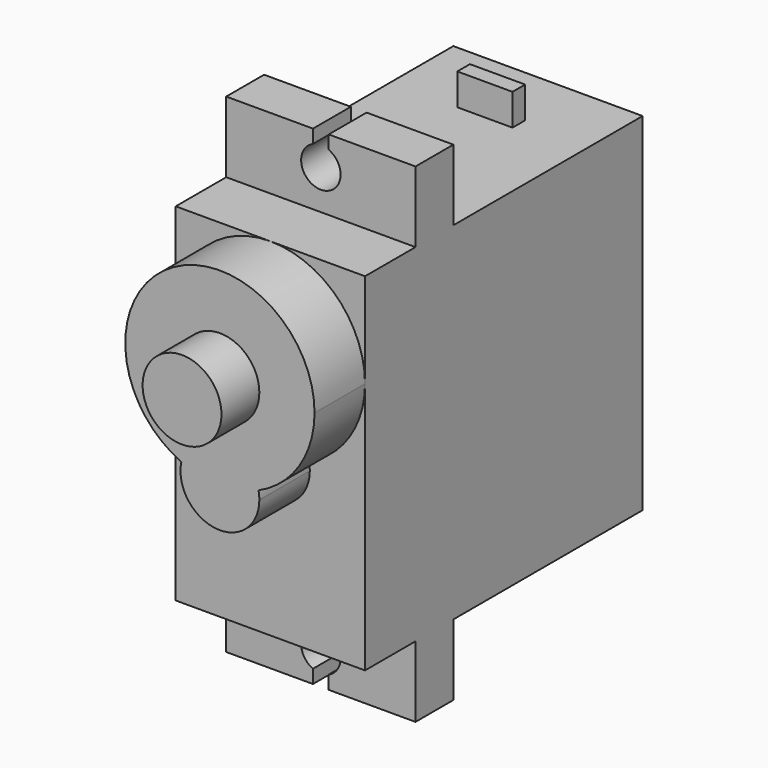
from build123d import *

# Parameters (mm, degrees)
F0_W      = 12
F0_H      = 22
F1_DEPTH  = 22
F3_DEPTH  = 4
F4_R      = 2.5
F5_DEPTH  = 3
F6_W      = 12
F6_H      = 3
F7_DEPTH  = 4.5
F8_W      = 12
F8_H      = 3
F9_DEPTH  = 4.5
F11_DEPTH = 3
F13_DEPTH = 3
F14_W     = 3.5
F14_H     = 1
F15_DEPTH = 2


with BuildPart() as f1:
    # F0 (on Front) → F1 (new body)
    with BuildSketch(Plane.XZ):
        Rectangle(F0_W, F0_H)
        Rectangle(F0_W, F0_H)
    extrude(amount=-F1_DEPTH)

    # F2 (on face) → F3 (join)
    with BuildSketch(Plane.XZ):
        with BuildLine():
            ThreePointArc((2.4451447071, -0.4791666667), (5.0334316447, 1.7343353083), (6, 5))
            ThreePointArc((6, 5), (-3.2656646917, 10.0334316447), (-2.4451447071, -0.4791666667))
            ThreePointArc((-2.4451447071, -0.4791666667), (0, 1.5), (2.4451447071, -0.4791666667))
        make_face()
        with BuildLine():
            ThreePointArc((2.4451447071, -0.4791666667), (0, 1.5), (-2.4451447071, -0.4791666667))
            ThreePointArc((-2.4451447071, -0.4791666667), (0, -1), (2.4451447071, -0.4791666667))
        make_face()
        with BuildLine():
            ThreePointArc((2.4451447071, -0.4791666667), (0, -1), (-2.4451447071, -0.4791666667))
            ThreePointArc((-2.4451447071, -0.4791666667), (-0.2618570527, -3.4862483552), (2.5, -1))
            ThreePointArc((2.5, -1), (2.4862483552, -0.7381429473), (2.4451447071, -0.4791666667))
        make_face()
    extrude(amount=F3_DEPTH)

    # F4 (on face) → F5 (join)
    with BuildSketch(Plane.XZ.offset(4)):
        with Locations((0, 5)):
            Circle(F4_R)
    extrude(amount=F5_DEPTH)

    # F6 (on face) → F7 (join)
    with BuildSketch(Plane.XY.offset(11)):
        with Locations((0, 5.5)):
            Rectangle(F6_W, F6_H)
    extrude(amount=F7_DEPTH)

    # F8 (on face) → F9 (join)
    with BuildSketch(Plane(origin=(0, 0, -11), x_dir=(1, 0, 0), z_dir=(0, 0, -1))):
        with Locations((0, -5.5)):
            Rectangle(F8_W, F8_H)
    extrude(amount=F9_DEPTH)

    # F10 (on face) → F11 (cut, through all)
    with BuildSketch(Plane.XZ.offset(-4)):
        with BuildLine():
            ThreePointArc((-0.5, 14.6456439237), (-0.6846531969, 12.4541749668), (1.25, 13.5))
            ThreePointArc((1.25, 13.5), (1.0458250332, 14.1846531969), (0.5, 14.6456439237))
            ThreePointArc((0.5, 14.6456439237), (0, 14.75), (-0.5, 14.6456439237))
        make_face()
        with BuildLine():
            ThreePointArc((-0.5, 14.6456439237), (0, 14.75), (0.5, 14.6456439237))
            Line((0.5, 14.6456439237), (0.5, 15.5))
            Line((0.5, 15.5), (-0.5, 15.5))
            Line((-0.5, 15.5), (-0.5, 14.6456439237))
        make_face()
    extrude(amount=-F11_DEPTH, mode=Mode.SUBTRACT)

    # F12 (on face) → F13 (cut, through all)
    with BuildSketch(Plane.XZ.offset(-4)):
        with BuildLine():
            ThreePointArc((0.5, -14.6456439237), (1.0458250332, -14.1846531969), (1.25, -13.5))
            ThreePointArc((1.25, -13.5), (-0.6846531969, -12.4541749668), (-0.5, -14.6456439237))
            ThreePointArc((-0.5, -14.6456439237), (0, -14.75), (0.5, -14.6456439237))
        make_face()
        with BuildLine():
            ThreePointArc((0.5, -14.6456439237), (0, -14.75), (-0.5, -14.6456439237))
            Line((-0.5, -14.6456439237), (-0.5, -15.5))
            Line((-0.5, -15.5), (0.5, -15.5))
            Line((0.5, -15.5), (0.5, -14.6456439237))
        make_face()
    extrude(amount=-F13_DEPTH, mode=Mode.SUBTRACT)

    # F14 (on face) → F15 (join)
    with BuildSketch(Plane.XY.offset(11)):
        with Locations((0, 17.5)):
            Rectangle(F14_W, F14_H)
    extrude(amount=F15_DEPTH)


solid = f1.part
